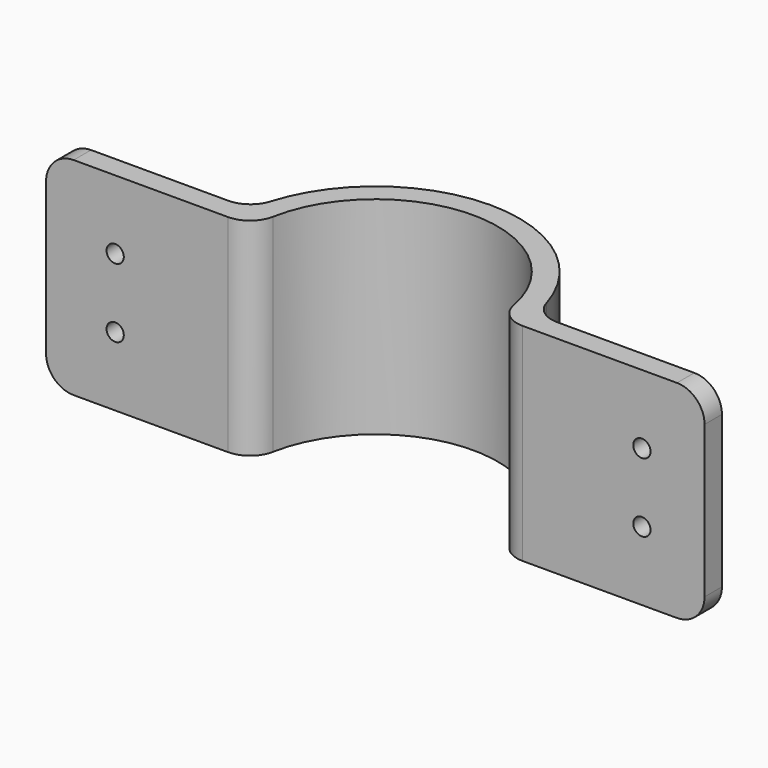
from build123d import *

# Parameters (mm, degrees)
F1_DEPTH = 38.1
F2_R     = 5.08
F4_D     = 3.175


with BuildPart() as f1:
    # F0 (on Top) → F1 (new body)
    with BuildSketch(Plane.XY):
        with BuildLine():
            Line((32.319215, -2.299103), (32.319215, 1.700897))
            Line((32.319215, 1.700897), (36.015589, 1.700897))
            ThreePointArc((36.015589, 1.700897), (9.819215, 24.200897), (-16.377159, 1.700897))
            Line((-16.377159, 1.700897), (-12.680785, 1.700897))
            Line((-12.680785, 1.700897), (-12.680785, -2.299103))
            ThreePointArc((-12.680785, -2.299103), (9.819215, 20.200897), (32.319215, -2.299103))
        make_face()
        with BuildLine():
            Line((36.015589, 1.700897), (32.319215, 1.700897))
            Line((32.319215, 1.700897), (32.319215, -2.299103))
            Line((32.319215, -2.299103), (36.319215, -2.299103))
            ThreePointArc((36.319215, -2.299103), (36.2432, -0.293349), (36.015589, 1.700897))
        make_face()
        with BuildLine():
            Line((70.419215, 1.700897), (36.015589, 1.700897))
            ThreePointArc((36.015589, 1.700897), (36.2432, -0.293349), (36.319215, -2.299103))
            Line((36.319215, -2.299103), (70.419215, -2.299103))
            Line((70.419215, -2.299103), (70.419215, 1.700897))
        make_face()
        with BuildLine():
            Line((-12.680785, 1.700897), (-16.377159, 1.700897))
            ThreePointArc((-16.377159, 1.700897), (-16.604769, -0.293349), (-16.680785, -2.299103))
            Line((-16.680785, -2.299103), (-12.680785, -2.299103))
            Line((-12.680785, -2.299103), (-12.680785, 1.700897))
        make_face()
        with BuildLine():
            ThreePointArc((-16.680785, -2.299103), (-16.604769, -0.293349), (-16.377159, 1.700897))
            Line((-16.377159, 1.700897), (-50.780785, 1.700897))
            Line((-50.780785, 1.700897), (-50.780785, -2.299103))
            Line((-50.780785, -2.299103), (-16.680785, -2.299103))
        make_face()
    extrude(amount=F1_DEPTH)

    # F2
    f2_edges = [f1.edges().sort_by_distance(p)[0] for p in [
        (70.419215, -0.299103, 38.1),
        (70.419215, -0.299103, 0),
        (32.319215, -2.299103, 19.05),
        (-12.680785, -2.299103, 19.05),
        (-50.780785, -0.299103, 38.1),
        (-50.780785, -0.299103, 0),
        (-16.377159, 1.700897, 19.05),
        (36.015589, 1.700897, 19.05),
    ]]
    fillet(f2_edges, radius=F2_R)

    # F4 (through all)
    with Locations(Plane(origin=(0, 1.700897, 0), x_dir=(-1, 0, 0), z_dir=(0, 1, 0))):
        with Locations((-58.892906, 25.4), (-58.892906, 12.7), (38.062844, 12.7), (38.062844, 25.4)):
            Hole(F4_D / 2)


solid = f1.part
